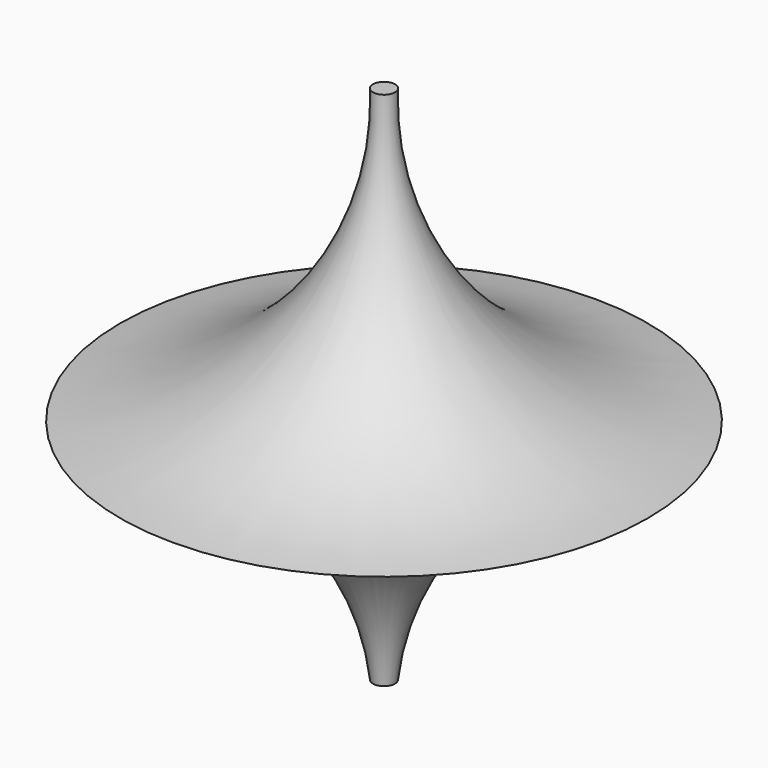
from build123d import *


with BuildPart() as f1:
    # F0 (on Front) → F1 (revolve)
    with BuildSketch(Plane.XZ):
        with BuildLine():
            Line((-1.280581, -26.793616), (0, -26.793616))
            Line((0, -26.793616), (0, 0))
            Line((0, 0), (-31.011365, 0))
            ThreePointArc((-31.011365, 0), (-11.00001, -7.686734), (-1.280581, -26.793616))
        make_face()
        with BuildLine():
            Line((-31.011365, 0), (0, 0))
            Line((0, 0), (0, 34.395956))
            Line((0, 34.395956), (-1.29011, 34.395956))
            ThreePointArc((-1.29011, 34.395956), (-9.374548, 11.342729), (-31.011365, 0))
        make_face()
    revolve(axis=Axis((0, 0, 3.80117), (0, 0, 1)))


solid = f1.part
